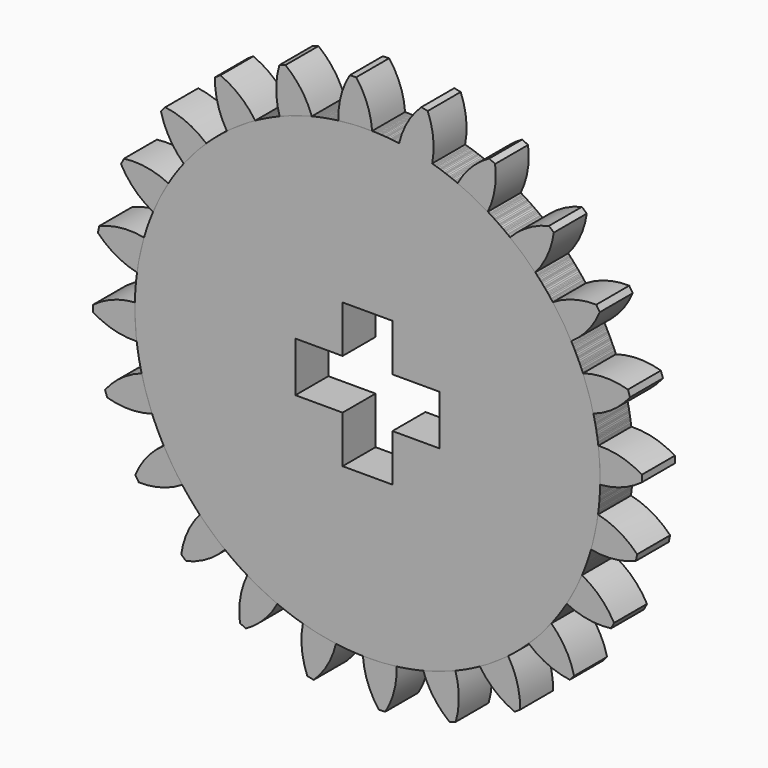
from build123d import *

# Parameters (mm, degrees)
F1_DEPTH = 3.81
F2_COUNT = 24
F2_ANGLE = 345
F4_DEPTH = 7.621


with BuildPart() as f1:
    # F0 (on Front) → F1 (new body, symmetric)
    with BuildSketch(Plane.XZ):
        with BuildLine():
            ThreePointArc((-5.388314, 42.688879), (-28.456354, -32.273988), (43.0276, 0))
            ThreePointArc((43.0276, 0), (30.724699, 30.122537), (0.851545, 43.019173))
            ThreePointArc((0.851545, 43.019173), (-2.274389, 42.967447), (-5.388314, 42.688879))
        make_face()
        with BuildLine():
            ThreePointArc((-5.388314, 42.688879), (-2.274389, 42.967447), (0.851545, 43.019173))
            ThreePointArc((0.851545, 43.019173), (-0.051039, 47.127364), (-2.087001, 50.807955))
            Line((-2.087001, 50.807955), (-3.28845, 50.744359))
            ThreePointArc((-3.28845, 50.744359), (-4.924476, 46.869399), (-5.388314, 42.688879))
        make_face()
    extrude(amount=F1_DEPTH, both=True)


with BuildPart() as f2_1:
    # F2: instance of F1
    add(f1.part.rotate(Axis((0, 0, 0), (0, -1, 0)), 1 * F2_ANGLE / (F2_COUNT - 1)))


with BuildPart() as f2_2:
    # F2: instance of F1
    add(f1.part.rotate(Axis((0, 0, 0), (0, -1, 0)), 2 * F2_ANGLE / (F2_COUNT - 1)))


with BuildPart() as f2_3:
    # F2: instance of F1
    add(f1.part.rotate(Axis((0, 0, 0), (0, -1, 0)), 3 * F2_ANGLE / (F2_COUNT - 1)))


with BuildPart() as f2_4:
    # F2: instance of F1
    add(f1.part.rotate(Axis((0, 0, 0), (0, -1, 0)), 4 * F2_ANGLE / (F2_COUNT - 1)))


with BuildPart() as f2_5:
    # F2: instance of F1
    add(f1.part.rotate(Axis((0, 0, 0), (0, -1, 0)), 5 * F2_ANGLE / (F2_COUNT - 1)))


with BuildPart() as f2_6:
    # F2: instance of F1
    add(f1.part.rotate(Axis((0, 0, 0), (0, -1, 0)), 6 * F2_ANGLE / (F2_COUNT - 1)))


with BuildPart() as f2_7:
    # F2: instance of F1
    add(f1.part.rotate(Axis((0, 0, 0), (0, -1, 0)), 7 * F2_ANGLE / (F2_COUNT - 1)))


with BuildPart() as f2_8:
    # F2: instance of F1
    add(f1.part.rotate(Axis((0, 0, 0), (0, -1, 0)), 8 * F2_ANGLE / (F2_COUNT - 1)))


with BuildPart() as f2_9:
    # F2: instance of F1
    add(f1.part.rotate(Axis((0, 0, 0), (0, -1, 0)), 9 * F2_ANGLE / (F2_COUNT - 1)))


with BuildPart() as f2_10:
    # F2: instance of F1
    add(f1.part.rotate(Axis((0, 0, 0), (0, -1, 0)), 10 * F2_ANGLE / (F2_COUNT - 1)))


with BuildPart() as f2_11:
    # F2: instance of F1
    add(f1.part.rotate(Axis((0, 0, 0), (0, -1, 0)), 11 * F2_ANGLE / (F2_COUNT - 1)))


with BuildPart() as f2_12:
    # F2: instance of F1
    add(f1.part.rotate(Axis((0, 0, 0), (0, -1, 0)), 12 * F2_ANGLE / (F2_COUNT - 1)))


with BuildPart() as f2_13:
    # F2: instance of F1
    add(f1.part.rotate(Axis((0, 0, 0), (0, -1, 0)), 13 * F2_ANGLE / (F2_COUNT - 1)))


with BuildPart() as f2_14:
    # F2: instance of F1
    add(f1.part.rotate(Axis((0, 0, 0), (0, -1, 0)), 14 * F2_ANGLE / (F2_COUNT - 1)))


with BuildPart() as f2_15:
    # F2: instance of F1
    add(f1.part.rotate(Axis((0, 0, 0), (0, -1, 0)), 15 * F2_ANGLE / (F2_COUNT - 1)))


with BuildPart() as f2_16:
    # F2: instance of F1
    add(f1.part.rotate(Axis((0, 0, 0), (0, -1, 0)), 16 * F2_ANGLE / (F2_COUNT - 1)))


with BuildPart() as f2_17:
    # F2: instance of F1
    add(f1.part.rotate(Axis((0, 0, 0), (0, -1, 0)), 17 * F2_ANGLE / (F2_COUNT - 1)))


with BuildPart() as f2_18:
    # F2: instance of F1
    add(f1.part.rotate(Axis((0, 0, 0), (0, -1, 0)), 18 * F2_ANGLE / (F2_COUNT - 1)))


with BuildPart() as f2_19:
    # F2: instance of F1
    add(f1.part.rotate(Axis((0, 0, 0), (0, -1, 0)), 19 * F2_ANGLE / (F2_COUNT - 1)))


with BuildPart() as f2_20:
    # F2: instance of F1
    add(f1.part.rotate(Axis((0, 0, 0), (0, -1, 0)), 20 * F2_ANGLE / (F2_COUNT - 1)))


with BuildPart() as f2_21:
    # F2: instance of F1
    add(f1.part.rotate(Axis((0, 0, 0), (0, -1, 0)), 21 * F2_ANGLE / (F2_COUNT - 1)))


with BuildPart() as f2_22:
    # F2: instance of F1
    add(f1.part.rotate(Axis((0, 0, 0), (0, -1, 0)), 22 * F2_ANGLE / (F2_COUNT - 1)))


with BuildPart() as f2_23:
    # F2: instance of F1
    add(f1.part.rotate(Axis((0, 0, 0), (0, -1, 0)), 23 * F2_ANGLE / (F2_COUNT - 1)))


with BuildPart() as f4_tool:
    # F3 (on face) → F4 (new body, through all)
    with BuildSketch(Plane.XZ.offset(3.81)):
        Polygon((13.335, -4.6101), (13.335, 4.6101), (4.6101, 4.6101), (4.6101, 13.335), (-4.6101, 13.335), (-4.6101, 4.6101), (-13.335, 4.6101), (-13.335, -4.6101), (-4.6101, -4.6101), (-4.6101, -13.335), (4.6101, -13.335), (4.6101, -4.6101), align=None)
    extrude(amount=-F4_DEPTH)


with BuildPart() as f1_1:
    add(f1.part)

    # F4: cut by f4_tool
    add(f4_tool.part, mode=Mode.SUBTRACT)


with BuildPart() as f2_1_1:
    add(f2_1.part)

    # F4: cut by f4_tool
    add(f4_tool.part, mode=Mode.SUBTRACT)


with BuildPart() as f2_2_1:
    add(f2_2.part)

    # F4: cut by f4_tool
    add(f4_tool.part, mode=Mode.SUBTRACT)


with BuildPart() as f2_3_1:
    add(f2_3.part)

    # F4: cut by f4_tool
    add(f4_tool.part, mode=Mode.SUBTRACT)


with BuildPart() as f2_4_1:
    add(f2_4.part)

    # F4: cut by f4_tool
    add(f4_tool.part, mode=Mode.SUBTRACT)


with BuildPart() as f2_5_1:
    add(f2_5.part)

    # F4: cut by f4_tool
    add(f4_tool.part, mode=Mode.SUBTRACT)


with BuildPart() as f2_6_1:
    add(f2_6.part)

    # F4: cut by f4_tool
    add(f4_tool.part, mode=Mode.SUBTRACT)


with BuildPart() as f2_7_1:
    add(f2_7.part)

    # F4: cut by f4_tool
    add(f4_tool.part, mode=Mode.SUBTRACT)


with BuildPart() as f2_8_1:
    add(f2_8.part)

    # F4: cut by f4_tool
    add(f4_tool.part, mode=Mode.SUBTRACT)


with BuildPart() as f2_9_1:
    add(f2_9.part)

    # F4: cut by f4_tool
    add(f4_tool.part, mode=Mode.SUBTRACT)


with BuildPart() as f2_10_1:
    add(f2_10.part)

    # F4: cut by f4_tool
    add(f4_tool.part, mode=Mode.SUBTRACT)


with BuildPart() as f2_11_1:
    add(f2_11.part)

    # F4: cut by f4_tool
    add(f4_tool.part, mode=Mode.SUBTRACT)


with BuildPart() as f2_12_1:
    add(f2_12.part)

    # F4: cut by f4_tool
    add(f4_tool.part, mode=Mode.SUBTRACT)


with BuildPart() as f2_13_1:
    add(f2_13.part)

    # F4: cut by f4_tool
    add(f4_tool.part, mode=Mode.SUBTRACT)


with BuildPart() as f2_14_1:
    add(f2_14.part)

    # F4: cut by f4_tool
    add(f4_tool.part, mode=Mode.SUBTRACT)


with BuildPart() as f2_15_1:
    add(f2_15.part)

    # F4: cut by f4_tool
    add(f4_tool.part, mode=Mode.SUBTRACT)


with BuildPart() as f2_16_1:
    add(f2_16.part)

    # F4: cut by f4_tool
    add(f4_tool.part, mode=Mode.SUBTRACT)


with BuildPart() as f2_17_1:
    add(f2_17.part)

    # F4: cut by f4_tool
    add(f4_tool.part, mode=Mode.SUBTRACT)


with BuildPart() as f2_18_1:
    add(f2_18.part)

    # F4: cut by f4_tool
    add(f4_tool.part, mode=Mode.SUBTRACT)


with BuildPart() as f2_19_1:
    add(f2_19.part)

    # F4: cut by f4_tool
    add(f4_tool.part, mode=Mode.SUBTRACT)


with BuildPart() as f2_20_1:
    add(f2_20.part)

    # F4: cut by f4_tool
    add(f4_tool.part, mode=Mode.SUBTRACT)


with BuildPart() as f2_21_1:
    add(f2_21.part)

    # F4: cut by f4_tool
    add(f4_tool.part, mode=Mode.SUBTRACT)


with BuildPart() as f2_22_1:
    add(f2_22.part)

    # F4: cut by f4_tool
    add(f4_tool.part, mode=Mode.SUBTRACT)


with BuildPart() as f2_23_1:
    add(f2_23.part)

    # F4: cut by f4_tool
    add(f4_tool.part, mode=Mode.SUBTRACT)


solid = Compound([f1_1.part, f2_1_1.part, f2_2_1.part, f2_3_1.part, f2_4_1.part, f2_5_1.part, f2_6_1.part, f2_7_1.part, f2_8_1.part, f2_9_1.part, f2_10_1.part, f2_11_1.part, f2_12_1.part, f2_13_1.part, f2_14_1.part, f2_15_1.part, f2_16_1.part, f2_17_1.part, f2_18_1.part, f2_19_1.part, f2_20_1.part, f2_21_1.part, f2_22_1.part, f2_23_1.part])
